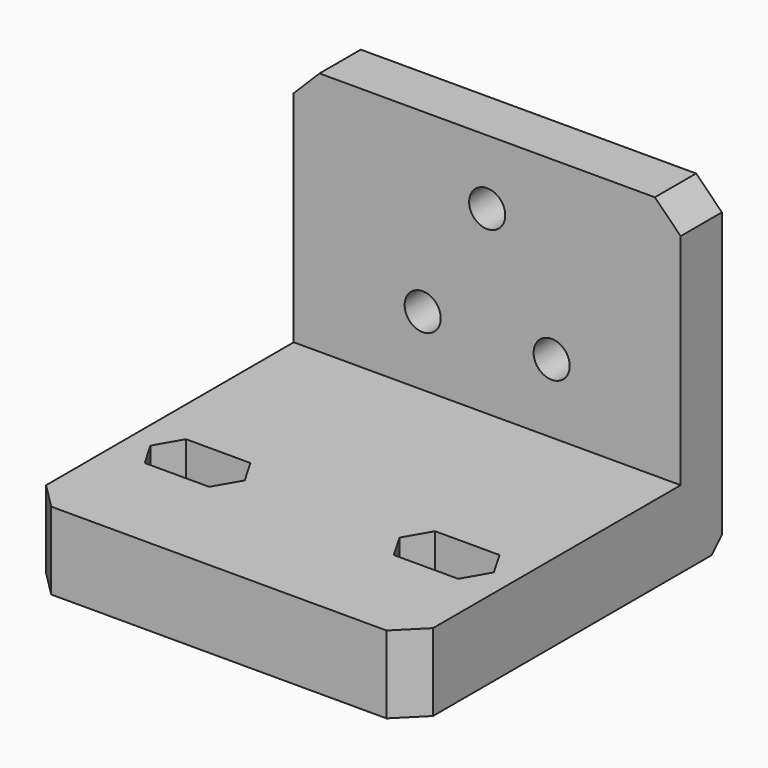
from build123d import *

# Parameters (mm, degrees)
SKETCH_W        = 30
SKETCH_H        = 25
PAD_DEPTH       = 30
SKETCH001_W     = 20.784298
SKETCH001_H     = 31.024467
POCKET_DEPTH    = 30.001
POCKET001_DEPTH = 104.489578018
SKETCH003_R     = 1.4
POCKET002_DEPTH = 5
CHAMFER_SIZE    = 2
CHAMFER001_SIZE = 2
CHAMFER002_SIZE = 1


with BuildPart() as part:
    # Sketch → Pad (new body)
    with BuildSketch(Plane.XZ):
        with Locations((0, 12.5)):
            Rectangle(SKETCH_W, SKETCH_H)
    extrude(amount=PAD_DEPTH)

    # Sketch001 (on Face2 of Pad) → Pocket (cut, through all)
    with BuildSketch(Plane(origin=(15, 0, 0), x_dir=(0, 0, 1), z_dir=(1, 0, 0))):
        with Locations((16.392149, 19.5122335)):
            Rectangle(SKETCH001_W, SKETCH001_H)
    extrude(amount=-POCKET_DEPTH, mode=Mode.SUBTRACT)

    # Sketch002 (on Face8 of Pocket) → Pocket001 (cut, through all)
    with BuildSketch(Plane(origin=(0, 0, 6), x_dir=(-1, 0, 0), z_dir=(0, 0, 1))):
        Polygon((-12.1547078033, 18.0000041944), (-7.1547078033, 18.0000041944), (-6, 20), (-7.1546932734, 22.0000041944), (-12.1547078033, 22.0000041944), (-13.3094083417, 20.0000041944), align=None)
    pocket001 = extrude(amount=-POCKET001_DEPTH, mode=Mode.SUBTRACT)

    # Mirrored: Pocket001 across Sketch002 V_Axis
    add(pocket001.mirror(Plane(origin=(0, 0, 6), x_dir=(0, 0, 1), z_dir=(-1, 0, 0))), mode=Mode.SUBTRACT)

    # Sketch003 (on Face4 of Pocket001) → Pocket002 (cut)
    with BuildSketch(Plane.XZ.offset(4)):
        with Locations((0, 20)):
            Circle(SKETCH003_R)
        with Locations((5, 11.3397459621)):
            Circle(SKETCH003_R)
        with Locations((-5, 11.3397459621)):
            Circle(SKETCH003_R)
    extrude(amount=-POCKET002_DEPTH, mode=Mode.SUBTRACT)

    # Chamfer
    chamfer_edges = [part.edges().sort_by_distance(p)[0] for p in [
        (-15, -2, 25),
        (15, -2, 25),
    ]]
    chamfer(chamfer_edges, length=CHAMFER_SIZE)

    # Chamfer001
    chamfer001_edges = [part.edges().sort_by_distance(p)[0] for p in [
        (15, -30, 3),
        (-15, -30, 3),
    ]]
    chamfer(chamfer001_edges, length=CHAMFER001_SIZE)

    # Chamfer002
    chamfer002_edges = [part.edges().sort_by_distance(p)[0] for p in [
        (0, 0, 0),
    ]]
    chamfer(chamfer002_edges, length=CHAMFER002_SIZE)


solid = part.part
